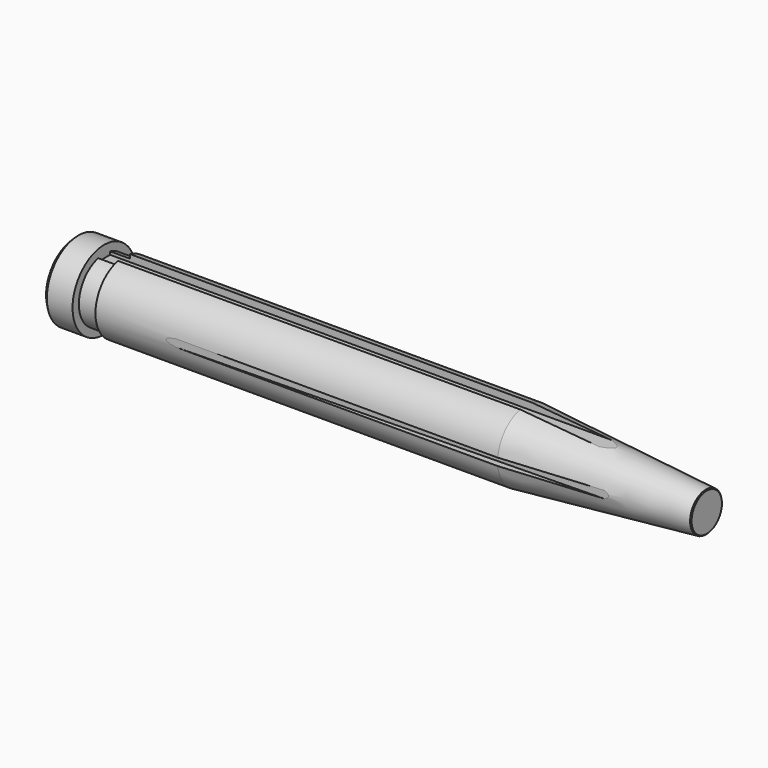
from build123d import *

# Parameters (mm, degrees)
F3_SIZE  = 1.27
F4_SIZE  = 0.254
F5_W     = 4.7752
F5_H     = 2.54
F6_DEPTH = 193.675
F8_DEPTH = 1.1938


with BuildPart() as f2:
    # F0 (on Front) → F2 (revolve)
    with BuildSketch(Plane.XZ):
        Polygon((0, 12.7), (0, 0), (203.2, 0), (203.2, 6.35), (145.135334, 11.43), (15.875, 11.43), (15.875, 10.16), (9.525, 10.16), (9.525, 12.7), align=None)
    revolve(axis=Axis((47.973725, 0, 0), (1, 0, 0)))

    # F3
    f3_edges = [f2.edges().sort_by_distance(p)[0] for p in [
        (0, 0, -12.7),
    ]]
    chamfer(f3_edges, length=F3_SIZE)

    # F4
    f4_edges = [f2.edges().sort_by_distance(p)[0] for p in [
        (203.2, 0, -6.35),
    ]]
    chamfer(f4_edges, length=F4_SIZE)

    # F5 (on face) → F6 (cut, through all)
    with BuildSketch(Plane.YZ.offset(203.2)):
        with Locations((0, 10.16)):
            Rectangle(F5_W, F5_H)
        with Locations((0, -10.16)):
            Rectangle(F5_W, F5_H)
    extrude(amount=-F6_DEPTH, mode=Mode.SUBTRACT)

    # F7 (on Top) → F8 (cut, symmetric)
    with BuildSketch(Plane.XY):
        Polygon((28.575, 11.637617), (180.941923, 8.462617), (180.941923, 11.637617), align=None)
        Polygon((180.941923, -8.462617), (28.575, -11.637617), (180.941923, -11.637617), align=None)
    extrude(amount=F8_DEPTH, both=True, mode=Mode.SUBTRACT)


solid = f2.part
